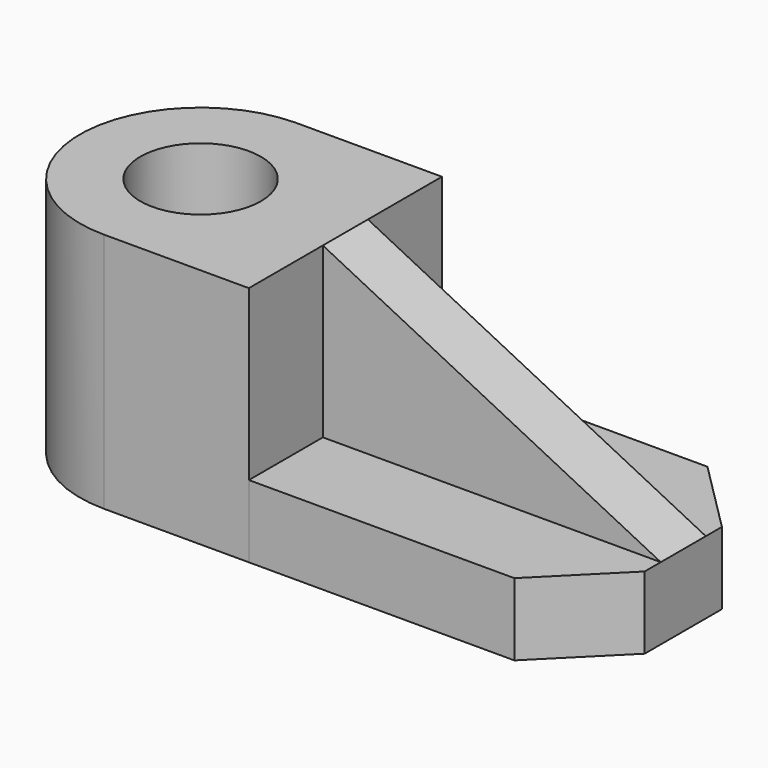
from build123d import *

# Parameters (mm, degrees)
F0_R     = 19.05
F1_DEPTH = 76.2
F2_DEPTH = 22.86
F0_W     = 106.68
F0_H     = 17.78
F3_DEPTH = 76.2
F5_DEPTH = 25.4


with BuildPart() as f1:
    # F0 (on Top) → F1 (new body)
    with BuildSketch(Plane.XY):
        with BuildLine():
            Line((18.417318, 71.237453), (-26.662783, 71.237453))
            Line((-26.662783, 71.237453), (-27.942582, 71.237453))
            ThreePointArc((-27.942582, 71.237453), (-65.401339, 32.822866), (-27.302682, -4.957173))
            Line((-27.302682, -4.957173), (18.417318, -4.959069))
            Line((18.417318, -4.959069), (18.417318, 24.247453))
            Line((18.417318, 24.247453), (18.417318, 42.027453))
            Line((18.417318, 42.027453), (18.417318, 71.237453))
        make_face()
        with Locations((-27.302682, 33.142827)):
            Circle(F0_R, mode=Mode.SUBTRACT)
    extrude(amount=F1_DEPTH)

    # F0 (on Top) → F2 (join)
    with BuildSketch(Plane.XY):
        Polygon((102.237318, 71.237453), (18.417318, 71.237453), (18.417318, 42.027453), (125.097318, 42.027453), (125.097318, 48.377453), align=None)
        Polygon((18.417318, 24.247453), (18.417318, -4.959069), (102.237318, -4.962547), (125.097318, 17.897453), (125.097318, 24.247453), align=None)
    extrude(amount=F2_DEPTH)

    # F0 (on Top) → F3 (join)
    with BuildSketch(Plane.XY):
        with Locations((71.757318, 33.137453)):
            Rectangle(F0_W, F0_H)
    extrude(amount=F3_DEPTH)

    # F4 (on face) → F5 (cut)
    with BuildSketch(Plane.XZ.offset(-24.247453)):
        Polygon((125.097318, 76.2), (18.417318, 76.2), (125.097318, 22.86), align=None)
    extrude(amount=-F5_DEPTH, mode=Mode.SUBTRACT)


solid = f1.part
